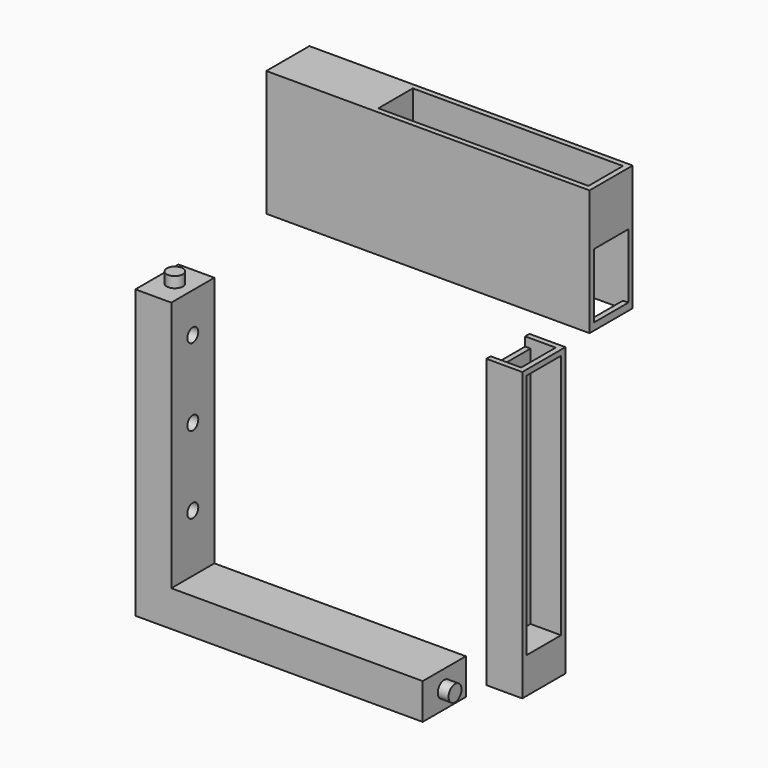
from build123d import *

# Parameters (mm, degrees)
F1_DEPTH  = 15
F2_R      = 1.9
F3_DEPTH  = 5.4
F4_R      = 2.25
F5_DEPTH  = 3
F6_R      = 2.25
F7_DEPTH  = 3
F8_W      = 90
F8_H      = 15
F9_DEPTH  = 35
F11_R     = 2.35
F12_DEPTH = 3.4
F10_W     = 8.5
F10_H     = 12
F13_DEPTH = 115.001
F10_W_2   = 10
F10_W_3   = 37
F14_DEPTH = 28.5
F10_W_4   = 3
F15_DEPTH = 33.5
F16_W     = 15
F16_H     = 80
F17_DEPTH = 10
F18_W     = 12
F18_H     = 68.5
F19_DEPTH = 8.5
F20_W     = 8.5
F20_H     = 12
F21_DEPTH = 2.5
F22_R     = 1.9
F23_DEPTH = 81.501
F24_R     = 2.35
F25_DEPTH = 3.4
F26_W     = 25
F26_H     = 5
F27_DEPTH = 5
F28_W     = 12
F28_H     = 5
F29_DEPTH = 50
F30_W     = 12
F30_H     = 18
F31_DEPTH = 2


with BuildPart() as f1:
    # F0 (on Front) → F1 (new body)
    with BuildSketch(Plane.XZ):
        Polygon((0, 80), (0, 0), (80, 0), (80, 10), (10, 10), (10, 80), align=None)
    extrude(amount=F1_DEPTH)

    # F2 (on face) → F3 (cut)
    with BuildSketch(Plane.YZ.offset(10)):
        with Locations((-7.5, 26)):
            Circle(F2_R)
        with Locations((-7.5, 47.5)):
            Circle(F2_R)
        with Locations((-7.5, 69)):
            Circle(F2_R)
    extrude(amount=-F3_DEPTH, mode=Mode.SUBTRACT)

    # F4 (on face) → F5 (join)
    with BuildSketch(Plane.YZ.offset(80)):
        with Locations((-7.5, 5)):
            Circle(F4_R)
    extrude(amount=F5_DEPTH)

    # F6 (on face) → F7 (join)
    with BuildSketch(Plane.XY.offset(80)):
        with Locations((5, -7.5)):
            Circle(F6_R)
    extrude(amount=F7_DEPTH)


with BuildPart() as f9:
    # F8 (on face) → F9 (new body)
    with BuildSketch(Plane.XY.offset(80)):
        with Locations((45, 38.063085)):
            Rectangle(F8_W, F8_H)
    extrude(amount=F9_DEPTH)

    # F11 (on face) → F12 (cut)
    with BuildSketch(Plane(origin=(0, 0, 80), x_dir=(1, 0, 0), z_dir=(0, 0, -1))):
        with Locations((5, -38.063085)):
            Circle(F11_R)
    extrude(amount=-F12_DEPTH, mode=Mode.SUBTRACT)

    # F10 (on face) → F13 (cut, through all)
    with BuildSketch(Plane.XY.offset(115)):
        with Locations((84.25, 38.063085)):
            Rectangle(F10_W, F10_H)
    extrude(amount=-F13_DEPTH, mode=Mode.SUBTRACT)

    # F10 (on face) → F14 (cut)
    with BuildSketch(Plane.XY.offset(115)):
        with Locations((75, 38.063085)):
            Rectangle(F10_W_2, F10_H)
        with Locations((48.5, 38.063085)):
            Rectangle(F10_W_3, F10_H)
    extrude(amount=-F14_DEPTH, mode=Mode.SUBTRACT)

    # F10 (on face) → F15 (cut)
    with BuildSketch(Plane.XY.offset(115)):
        with Locations((68.5, 38.063085)):
            Rectangle(F10_W_4, F10_H)
    extrude(amount=-F15_DEPTH, mode=Mode.SUBTRACT)

    # F26 (on face) → F27 (cut)
    with BuildSketch(Plane.XY.offset(86.5)):
        with Locations((48.5, 38.063085)):
            Rectangle(F26_W, F26_H)
    extrude(amount=-F27_DEPTH, mode=Mode.SUBTRACT)

    # F28 (on face) → F29 (cut)
    with BuildSketch(Plane(origin=(0, 0, 0), x_dir=(0, -1, 0), z_dir=(-1, 0, 0))):
        with Locations((-38.063085, 100.5)):
            Rectangle(F28_W, F28_H)
    extrude(amount=-F29_DEPTH, mode=Mode.SUBTRACT)

    # F30 (on face) → F31 (cut)
    with BuildSketch(Plane.YZ.offset(90)):
        with Locations((38.063085, 91)):
            Rectangle(F30_W, F30_H)
    extrude(amount=-F31_DEPTH, mode=Mode.SUBTRACT)


with BuildPart() as f17:
    # F16 (on face) → F17 (new body)
    with BuildSketch(Plane.YZ.offset(80)):
        with Locations((14.653222, 40)):
            Rectangle(F16_W, F16_H)
    extrude(amount=F17_DEPTH)

    # F18 (on face) → F19 (cut)
    with BuildSketch(Plane.YZ.offset(90)):
        with Locations((14.653222, 44.25)):
            Rectangle(F18_W, F18_H)
    extrude(amount=-F19_DEPTH, mode=Mode.SUBTRACT)

    # F20 (on face) → F21 (cut)
    with BuildSketch(Plane.XY.offset(80)):
        with Locations((84.25, 14.653222)):
            Rectangle(F20_W, F20_H)
    extrude(amount=-F21_DEPTH, mode=Mode.SUBTRACT)

    # F22 (on face) → F23 (cut, through all)
    with BuildSketch(Plane.YZ.offset(81.5)):
        with Locations((14.653222, 69)):
            Circle(F22_R)
        with Locations((14.653222, 47.5)):
            Circle(F22_R)
        with Locations((14.653222, 26)):
            Circle(F22_R)
    extrude(amount=-F23_DEPTH, mode=Mode.SUBTRACT)

    # F24 (on face) → F25 (cut)
    with BuildSketch(Plane(origin=(80, 0, 0), x_dir=(0, -1, 0), z_dir=(-1, 0, 0))):
        with Locations((-14.653222, 5)):
            Circle(F24_R)
    extrude(amount=-F25_DEPTH, mode=Mode.SUBTRACT)


solid = Compound([f1.part, f9.part, f17.part])
